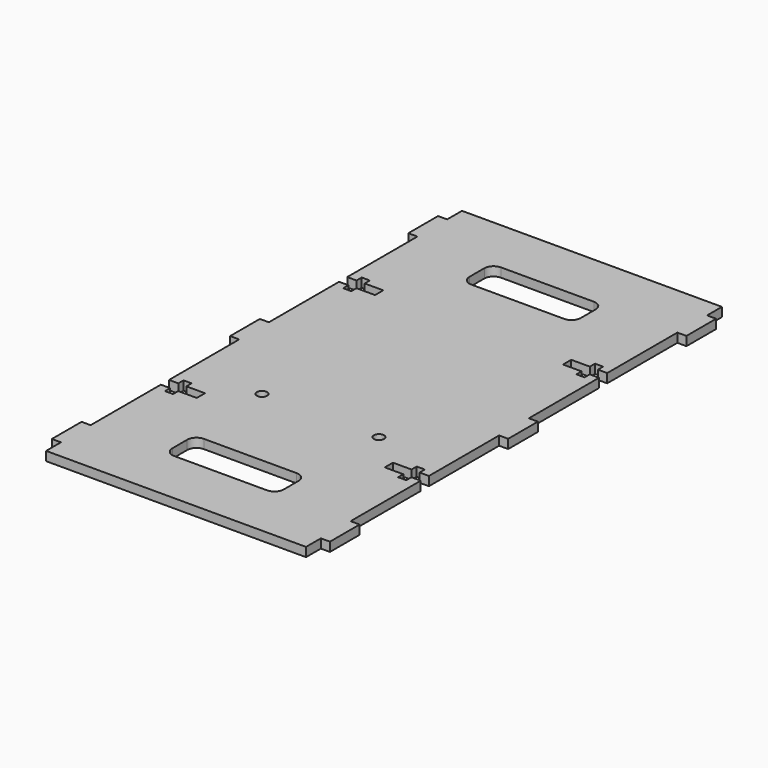
from build123d import *

# Parameters (mm, degrees)
F0_R     = 1.7526
F0_W     = 38.1
F0_H     = 12.7
F1_DEPTH = 3.0988
F2_R     = 3.175


with BuildPart() as f1:
    # F0 (on Top) → F1 (new body)
    with BuildSketch(Plane.XY):
        Polygon((44.45, 88.9), (-44.45, 88.9), (-44.45, 82.55), (-47.5488, 82.55), (-47.5488, 69.85), (-44.45, 69.85), (-44.45, 39.8526), (-41.275, 39.8526), (-41.275, 42.06875), (-38.496875, 42.06875), (-38.496875, 39.8526), (-32.146875, 39.8526), (-32.146875, 36.3474), (-38.496875, 36.3474), (-38.496875, 34.13125), (-41.275, 34.13125), (-41.275, 36.3474), (-44.45, 36.3474), (-44.45, 6.35), (-47.5488, 6.35), (-47.5488, -6.35), (-44.45, -6.35), (-44.45, -36.3474), (-41.275, -36.3474), (-41.275, -34.13125), (-38.496875, -34.13125), (-38.496875, -36.3474), (-32.146875, -36.3474), (-32.146875, -39.8526), (-38.496875, -39.8526), (-38.496875, -42.06875), (-41.275, -42.06875), (-41.275, -39.8526), (-44.45, -39.8526), (-44.45, -69.85), (-47.5488, -69.85), (-47.5488, -82.55), (-44.45, -82.55), (-44.45, -88.9), (44.45, -88.9), (44.45, -82.55), (47.5488, -82.55), (47.5488, -69.85), (44.45, -69.85), (44.45, -39.8526), (41.275, -39.8526), (41.275, -42.06875), (38.496875, -42.06875), (38.496875, -39.8526), (32.146875, -39.8526), (32.146875, -36.3474), (38.496875, -36.3474), (38.496875, -34.13125), (41.275, -34.13125), (41.275, -36.3474), (44.45, -36.3474), (44.45, -6.35), (47.5488, -6.35), (47.5488, 6.35), (44.45, 6.35), (44.45, 36.3474), (41.275, 36.3474), (41.275, 34.13125), (38.496875, 34.13125), (38.496875, 36.3474), (32.146875, 36.3474), (32.146875, 39.8526), (38.496875, 39.8526), (38.496875, 42.06875), (41.275, 42.06875), (41.275, 39.8526), (44.45, 39.8526), (44.45, 69.85), (47.5488, 69.85), (47.5488, 82.55), (44.45, 82.55), align=None)
        with Locations((-20, -27.1526)):
            Circle(F0_R, mode=Mode.SUBTRACT)
        with Locations((0, -63.5)):
            Rectangle(F0_W, F0_H, mode=Mode.SUBTRACT)
        with Locations((20, -27.1526)):
            Circle(F0_R, mode=Mode.SUBTRACT)
        with Locations((0, 63.5)):
            Rectangle(F0_W, F0_H, mode=Mode.SUBTRACT)
    extrude(amount=F1_DEPTH)

    # F2
    f2_edges = [f1.edges().sort_by_distance(p)[0] for p in [
        (19.05, 57.15, 1.5494),
        (19.05, -69.85, 1.5494),
        (-19.05, 57.15, 1.5494),
        (-19.05, -69.85, 1.5494),
        (19.05, 69.85, 1.5494),
        (19.05, -57.15, 1.5494),
        (-19.05, -57.15, 1.5494),
        (-19.05, 69.85, 1.5494),
    ]]
    fillet(f2_edges, radius=F2_R)


solid = f1.part
